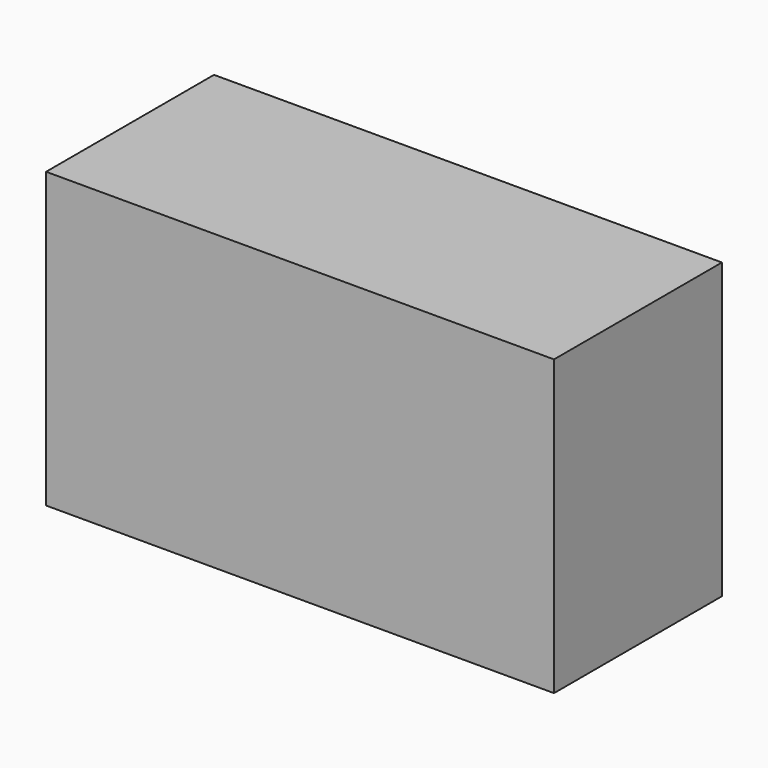
from build123d import *

# Parameters (mm, degrees)
F0_W     = 12.1
F0_H     = 5
F1_DEPTH = 7


with BuildPart() as f1:
    # F0 (on Top) → F1 (new body)
    with BuildSketch(Plane.XY):
        Rectangle(F0_W, F0_H)
    extrude(amount=F1_DEPTH)


with BuildPart() as f2_1:
    # F2: copy of F1
    add(f1.part)


solid = Compound([f1.part, f2_1.part])
